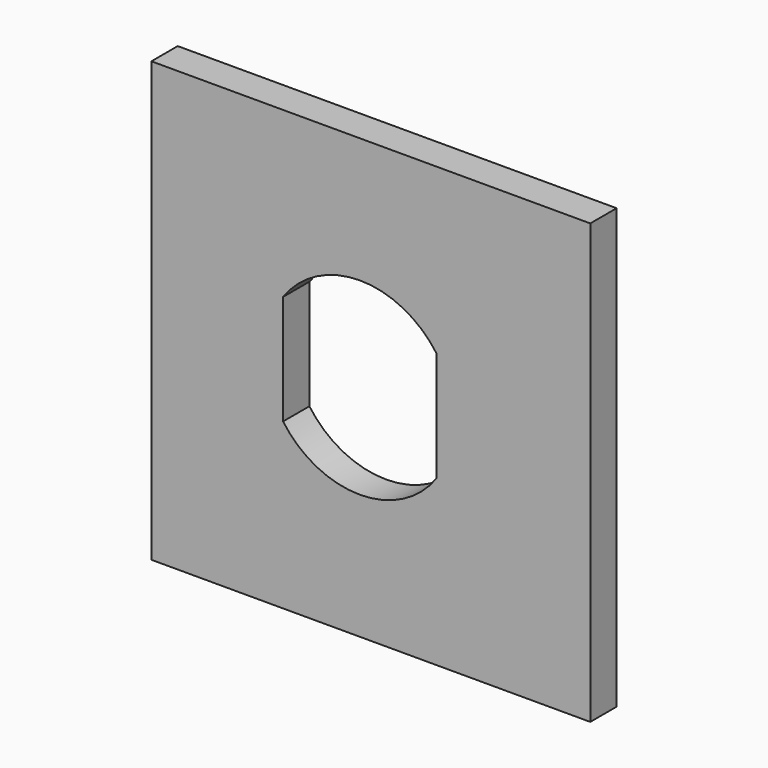
from build123d import *

# Parameters (mm, degrees)
BOX039_W          = 10
BOX039_H          = 10
BOX039_DEPTH      = 10
BOX040_W          = 10
BOX040_H          = 10
BOX040_DEPTH      = 10
CYLINDER030_R     = 4.3
CYLINDER030_DEPTH = 5
BOX041_W          = 20
BOX041_H          = 1.5
BOX041_DEPTH      = 20


with BuildPart() as cube039:
    # Box039 → Box039 (new body)
    with BuildSketch(Plane(origin=(53.5, -105, 4), x_dir=(1, 0, 0), z_dir=(0, 0, 1))):
        with Locations((5, 5)):
            Rectangle(BOX039_W, BOX039_H)
    extrude(amount=BOX039_DEPTH)


with BuildPart() as cube040:
    # Box040 → Box040 (new body)
    with BuildSketch(Plane(origin=(36.5, -105, 4), x_dir=(1, 0, 0), z_dir=(0, 0, 1))):
        with Locations((5, 5)):
            Rectangle(BOX040_W, BOX040_H)
    extrude(amount=BOX040_DEPTH)


with BuildPart() as cut047:
    # Cylinder030 → Cylinder030 (new body)
    with BuildSketch(Plane(origin=(50, -100, 9), x_dir=(1, 0, 0), z_dir=(0, -1, 0))):
        Circle(CYLINDER030_R)
    extrude(amount=CYLINDER030_DEPTH)

    # Cut046: cut Cube040
    add(cube040.part, mode=Mode.SUBTRACT)

    # Cut047: cut Cube039
    add(cube039.part, mode=Mode.SUBTRACT)


with BuildPart() as cut047_1:
    # Cut047 placement: moved
    add(cut047.part.moved(Location((250, 193, 1))))


with BuildPart() as obj1:
    # Box041 → Box041 (new body)
    with BuildSketch(Plane(origin=(290.5, 90, 0), x_dir=(1, 0, 0), z_dir=(0, 0, 1))):
        with Locations((10, 0.75)):
            Rectangle(BOX041_W, BOX041_H)
    extrude(amount=BOX041_DEPTH)

    # Cut048: cut Cut047
    add(cut047_1.part, mode=Mode.SUBTRACT)


solid = obj1.part
